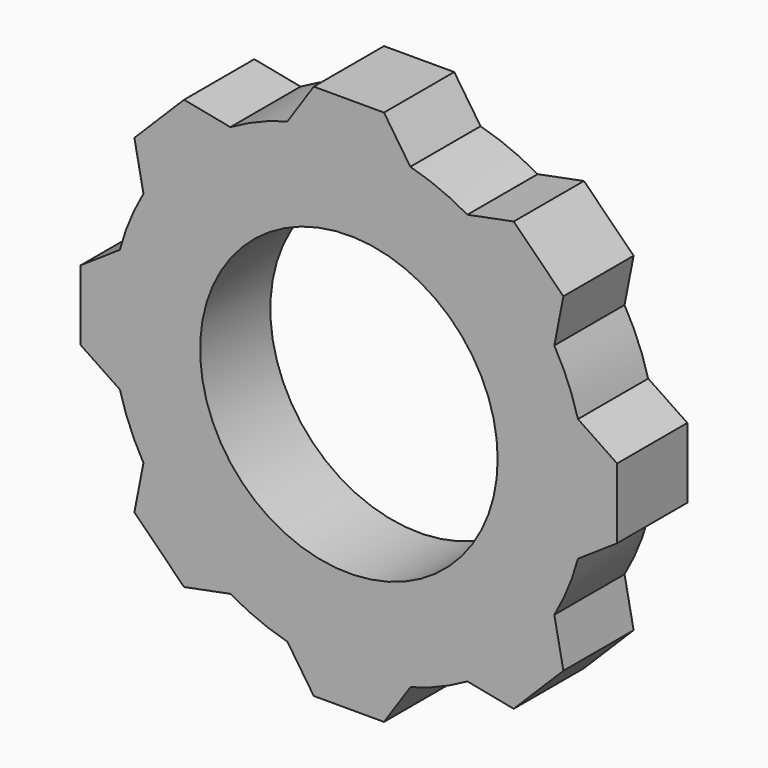
from build123d import *

# Parameters (mm, degrees)
F0_R     = 68.6240920578
F0_R_2   = 43.04675532
F1_DEPTH = 25.4
F3_DEPTH = 25.4
F5_COUNT = 8


with BuildPart() as f1:
    # F0 (on Front) → F1 (new body)
    with BuildSketch(Plane.XZ):
        Circle(F0_R)
        Circle(F0_R_2, mode=Mode.SUBTRACT)
    extrude(amount=F1_DEPTH)

    # F2 (on Front) → F3 (join)
    with BuildSketch(Plane.XZ):
        Polygon((10.16, 77.6048756392), (-10.16, 77.6048756392), (-17.78, 66.2807484173), (17.78, 66.2807484173), align=None)
    extrude(amount=F3_DEPTH)

    # F5: F1 ×8 about axis
    f5_axis = Axis((0, -4.3883249164, 0), (0, 1, 0))


with BuildPart() as f1_1:
    add(f1.part)
    for i in range(1, F5_COUNT):
        add(f1.part.rotate(f5_axis, i * 360 / F5_COUNT))


solid = f1_1.part
